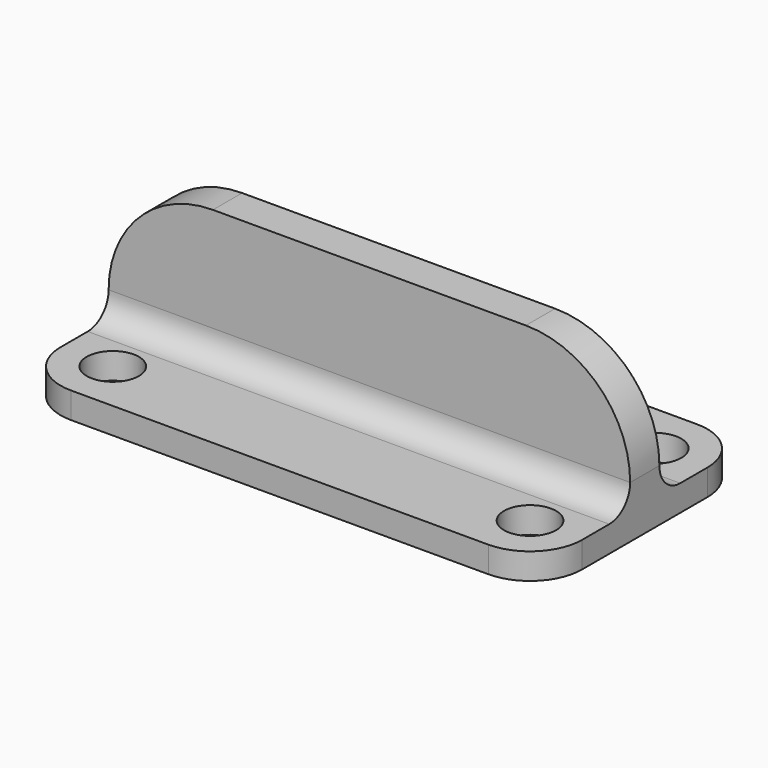
from build123d import *

# Parameters (mm, degrees)
SKETCH_W     = 100
SKETCH_H     = 50
PAD_DEPTH    = 5
SKETCH001_R  = 5
POCKET_DEPTH = 5
SKETCH002_W  = 100
SKETCH002_H  = 7
PAD001_DEPTH = 25
FILLET_R     = 20
FILLET001_R  = 10
FILLET002_R  = 5


with BuildPart() as part:
    # Sketch → Pad (new body)
    with BuildSketch(Plane.XY):
        Rectangle(SKETCH_W, SKETCH_H)
    extrude(amount=PAD_DEPTH)

    # Sketch001 (on Face6 of Pad) → Pocket (cut)
    with BuildSketch(Plane.XY.offset(5)):
        with Locations((-40, 15)):
            Circle(SKETCH001_R)
        with Locations((40, 15)):
            Circle(SKETCH001_R)
        with Locations((40, -15)):
            Circle(SKETCH001_R)
        with Locations((-40, -15)):
            Circle(SKETCH001_R)
    extrude(amount=-POCKET_DEPTH, mode=Mode.SUBTRACT)

    # Sketch002 (on Face5 of Pocket) → Pad001 (join)
    with BuildSketch(Plane.XY.offset(5)):
        Rectangle(SKETCH002_W, SKETCH002_H)
    extrude(amount=PAD001_DEPTH)

    # Fillet
    fillet_edges = [part.edges().sort_by_distance(p)[0] for p in [
        (-50, 0, 30),
        (50, 0, 30),
    ]]
    fillet(fillet_edges, radius=FILLET_R)

    # Fillet001
    fillet001_edges = [part.edges().sort_by_distance(p)[0] for p in [
        (50, -25, 2.5),
        (-50, -25, 2.5),
        (-50, 25, 2.5),
        (50, 25, 2.5),
    ]]
    fillet(fillet001_edges, radius=FILLET001_R)

    # Fillet002
    fillet002_edges = [part.edges().sort_by_distance(p)[0] for p in [
        (0, -3.5, 5),
        (0, 3.5, 5),
    ]]
    fillet(fillet002_edges, radius=FILLET002_R)


solid = part.part
